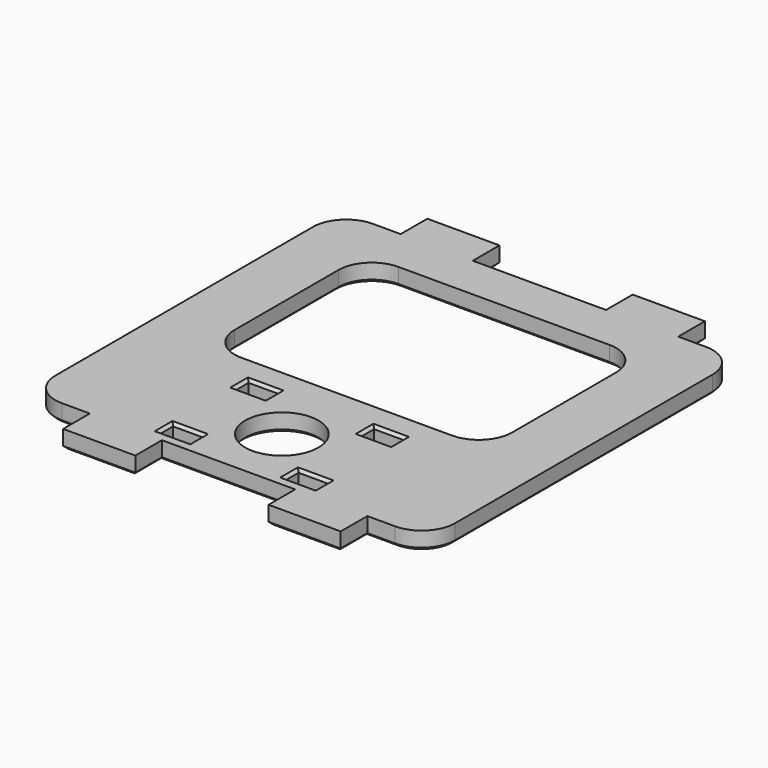
from build123d import *

# Parameters (mm, degrees)
F0_W     = 2.7
F0_H     = 1.5
F0_R     = 3.3
F0_W_2   = 25
F0_H_2   = 17.7
F0_W_3   = 6.5
F0_H_3   = 3
F1_DEPTH = 1.6
F2_R     = 3
F3_SIZE  = 0.25


with BuildPart() as f1:
    # F0 (on Top) → F1 (new body)
    with BuildSketch(Plane.XY):
        Polygon((18, -17.5), (18, 17.5), (12.5, 17.5), (6, 17.5), (-6, 17.5), (-12.5, 17.5), (-18, 17.5), (-18, -17.5), (-12.5, -17.5), (-6, -17.5), (6, -17.5), (12.5, -17.5), align=None)
        with Locations((-5.65, -15.75)):
            Rectangle(F0_W, F0_H, mode=Mode.SUBTRACT)
        with Locations((-5.65, -7.25)):
            Rectangle(F0_W, F0_H, mode=Mode.SUBTRACT)
        with Locations((5.65, -15.75)):
            Rectangle(F0_W, F0_H, mode=Mode.SUBTRACT)
        with Locations((0, -11.5)):
            Circle(F0_R, mode=Mode.SUBTRACT)
        with Locations((5.65, -7.25)):
            Rectangle(F0_W, F0_H, mode=Mode.SUBTRACT)
        with Locations((0, 4.65)):
            Rectangle(F0_W_2, F0_H_2, mode=Mode.SUBTRACT)
        with Locations((9.25, 19)):
            Rectangle(F0_W_3, F0_H_3)
        with Locations((9.25, -19)):
            Rectangle(F0_W_3, F0_H_3)
        with Locations((-9.25, 19)):
            Rectangle(F0_W_3, F0_H_3)
        with Locations((-9.25, -19)):
            Rectangle(F0_W_3, F0_H_3)
    extrude(amount=F1_DEPTH)

    # F2
    f2_edges = [f1.edges().sort_by_distance(p)[0] for p in [
        (-18, 17.5, 0.8),
        (-18, -17.5, 0.8),
        (18, -17.5, 0.8),
        (18, 17.5, 0.8),
        (-12.5, -4.2, 0.8),
        (-12.5, 13.5, 0.8),
        (12.5, 13.5, 0.8),
        (12.5, -4.2, 0.8),
    ]]
    fillet(f2_edges, radius=F2_R)

    # F3
    f3_edges = [f1.edges().sort_by_distance(p)[0] for p in [
        (18, 0, 0),
        (17.12132, -16.62132, 0),
        (17.12132, 16.62132, 0),
        (13.75, -17.5, 0),
        (13.75, 17.5, 0),
        (12.5, -19, 0),
        (12.5, 19, 0),
        (9.25, -20.5, 0),
        (9.25, 20.5, 0),
        (6, -19, 0),
        (6, 19, 0),
        (0, -17.5, 0),
        (0, 17.5, 0),
        (-6, -19, 0),
        (-6, 19, 0),
        (-9.25, -20.5, 0),
        (-9.25, 20.5, 0),
        (-12.5, -19, 0),
        (-12.5, 19, 0),
        (-13.75, -17.5, 0),
        (-13.75, 17.5, 0),
        (-17.12132, -16.62132, 0),
        (-17.12132, 16.62132, 0),
        (-18, 0, 0),
        (-7, -15.75, 0),
        (-5.65, -15, 0),
        (-4.3, -15.75, 0),
        (-5.65, -16.5, 0),
        (-4.3, -7.25, 0),
        (-5.65, -8, 0),
        (-7, -7.25, 0),
        (-5.65, -6.5, 0),
        (4.3, -15.75, 0),
        (5.65, -15, 0),
        (7, -15.75, 0),
        (5.65, -16.5, 0),
        (-3.3, -11.5, 0),
        (5.65, -8, 0),
        (4.3, -7.25, 0),
        (5.65, -6.5, 0),
        (7, -7.25, 0),
        (-12.5, 4.65, 0),
        (-11.62132, -3.32132, 0),
        (-11.62132, 12.62132, 0),
        (0, -4.2, 0),
        (0, 13.5, 0),
        (11.62132, -3.32132, 0),
        (11.62132, 12.62132, 0),
        (12.5, 4.65, 0),
        (-7, -7.25, 1.6),
        (-5.65, -6.5, 1.6),
        (-4.3, -7.25, 1.6),
        (-5.65, -8, 1.6),
        (-5.65, -15, 1.6),
        (-7, -15.75, 1.6),
        (-5.65, -16.5, 1.6),
        (-4.3, -15.75, 1.6),
        (4.3, -7.25, 1.6),
        (5.65, -6.5, 1.6),
        (7, -7.25, 1.6),
        (5.65, -8, 1.6),
        (5.65, -15, 1.6),
        (4.3, -15.75, 1.6),
        (5.65, -16.5, 1.6),
        (7, -15.75, 1.6),
    ]]
    chamfer(f3_edges, length=F3_SIZE)


solid = f1.part
